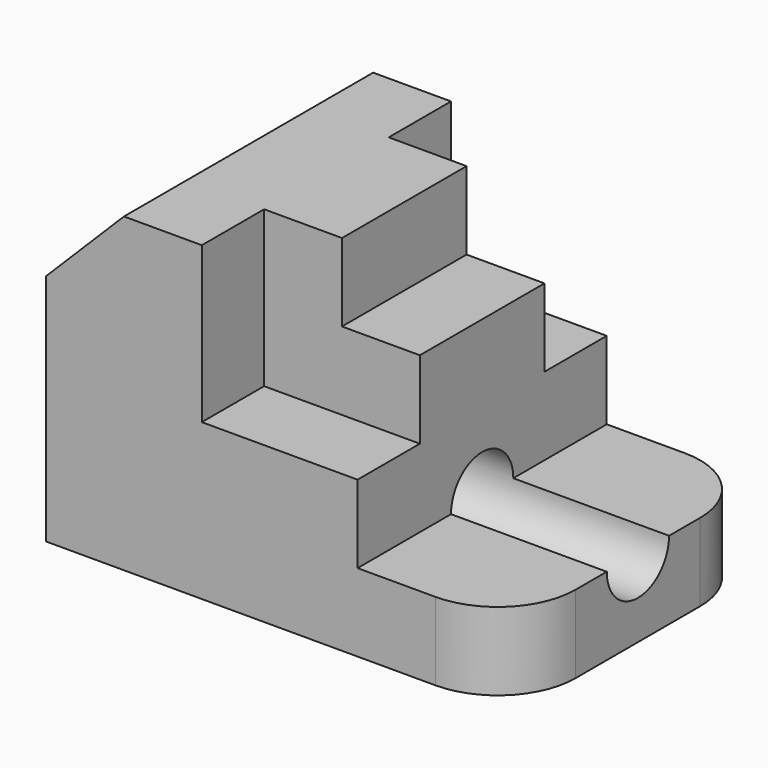
from build123d import *

# Parameters (mm, degrees)
F1_DEPTH = 25.4
F3_DEPTH = 12.7
F5_DEPTH = 76.2
F6_R     = 6.35
F7_DEPTH = 76.2


with BuildPart() as f1:
    # F0 (on Front) → F1 (new body, symmetric)
    with BuildSketch(Plane.XZ):
        Polygon((0, 38.1), (0, 0), (76.2, 0), (76.2, 12.7), (50.8, 12.7), (50.8, 25.4), (25.4, 25.4), (25.4, 50.8), (12.7, 50.8), align=None)
    extrude(amount=F1_DEPTH, both=True)

    # F2 (on Front) → F3 (join, symmetric)
    with BuildSketch(Plane.XZ):
        Polygon((25.4, 50.8), (25.4, 25.4), (50.8, 25.4), (50.8, 38.1), (38.1, 38.1), (38.1, 50.8), align=None)
    extrude(amount=F3_DEPTH, both=True)

    # F4 (on Top) → F5 (intersect)
    with BuildSketch(Plane.XY):
        with BuildLine():
            Line((0, 25.4), (0, -25.4))
            Line((0, -25.4), (63.5, -25.4))
            ThreePointArc((63.5, -25.4), (72.480256, -21.680256), (76.2, -12.7))
            Line((76.2, -12.7), (76.2, 12.7))
            ThreePointArc((76.2, 12.7), (72.480256, 21.680256), (63.5, 25.4))
            Line((63.5, 25.4), (0, 25.4))
        make_face()
    extrude(amount=F5_DEPTH, mode=Mode.INTERSECT)

    # F6 (on Right) → F7 (cut)
    with BuildSketch(Plane.YZ):
        with Locations((0, 12.7)):
            Circle(F6_R)
    extrude(amount=F7_DEPTH, mode=Mode.SUBTRACT)


solid = f1.part
